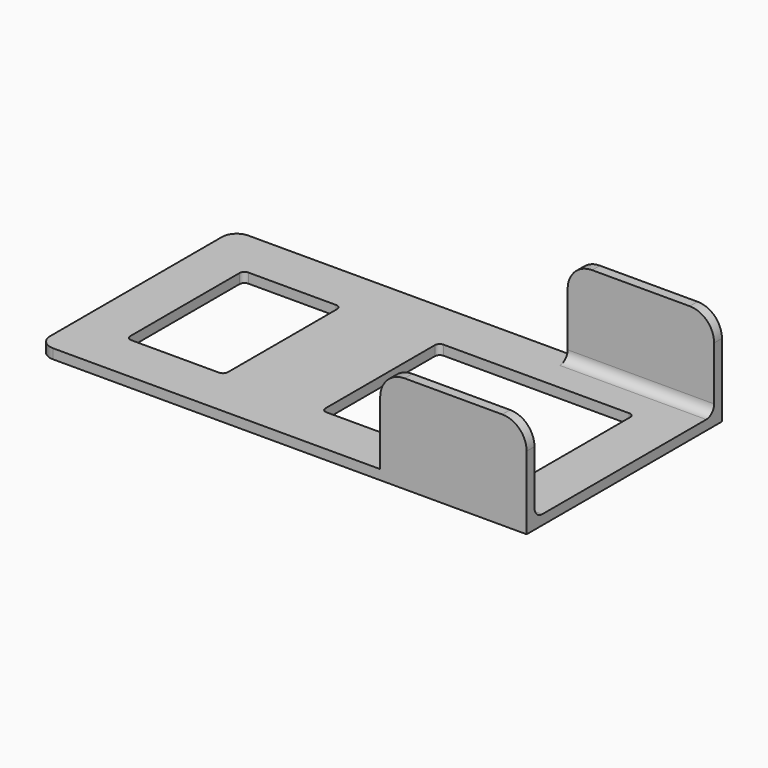
from build123d import *

# Parameters (mm, degrees)
BOX001_W     = 30
BOX001_H     = 2
BOX001_DEPTH = 20
BOX002_W     = 30
BOX002_H     = 2
BOX002_DEPTH = 20
BOX_W        = 100
BOX_H        = 50
BOX_DEPTH    = 2
SKETCH_W     = 20
SKETCH_H     = 30
SKETCH_W_2   = 40
POCKET_DEPTH = 2.001
FILLET_1_R   = 3
FILLET_2_R   = 1
FILLET001_R  = 5
FILLET002_R  = 2


with BuildPart() as obj1:
    # Box001 → Box001 (new body)
    with BuildSketch(Plane(origin=(70, 0, 0), x_dir=(1, 0, 0), z_dir=(0, 0, 1))):
        with Locations((15, 1)):
            Rectangle(BOX001_W, BOX001_H)
    extrude(amount=BOX001_DEPTH)


with BuildPart() as obj2:
    # Box002 → Box002 (new body)
    with BuildSketch(Plane(origin=(70, 48, 0), x_dir=(1, 0, 0), z_dir=(0, 0, 1))):
        with Locations((15, 1)):
            Rectangle(BOX002_W, BOX002_H)
    extrude(amount=BOX002_DEPTH)


with BuildPart() as obj3:
    # Box → Box (new body)
    with BuildSketch(Plane.XY):
        with Locations((50, 25)):
            Rectangle(BOX_W, BOX_H)
    extrude(amount=BOX_DEPTH)

    # Fusion: union obj1, obj2
    add(obj1.part)
    add(obj2.part)

    # Sketch → Pocket (cut, through all)
    with BuildSketch(Plane.XY.offset(2)):
        with Locations((20, 25)):
            Rectangle(SKETCH_W, SKETCH_H)
        with Locations((70, 25)):
            Rectangle(SKETCH_W_2, SKETCH_H)
    extrude(amount=-POCKET_DEPTH, mode=Mode.SUBTRACT)

    # Fillet 1
    fillet_1_edges = [obj3.edges().sort_by_distance(p)[0] for p in [
        (0, 50, 1),
        (0, 0, 1),
    ]]
    fillet(fillet_1_edges, radius=FILLET_1_R)

    # Fillet 2
    fillet_2_edges = [obj3.edges().sort_by_distance(p)[0] for p in [
        (90, 10, 1),
        (50, 10, 1),
        (90, 40, 1),
        (50, 40, 1),
        (10, 40, 1),
        (30, 40, 1),
        (10, 10, 1),
        (30, 10, 1),
    ]]
    fillet(fillet_2_edges, radius=FILLET_2_R)

    # Fillet001
    fillet001_edges = [obj3.edges().sort_by_distance(p)[0] for p in [
        (100, 1, 20),
        (100, 49, 20),
        (70, 49, 20),
        (70, 1, 20),
    ]]
    fillet(fillet001_edges, radius=FILLET001_R)

    # Fillet002
    fillet002_edges = [obj3.edges().sort_by_distance(p)[0] for p in [
        (85, 48, 2),
        (85, 2, 2),
    ]]
    fillet(fillet002_edges, radius=FILLET002_R)


solid = obj3.part
